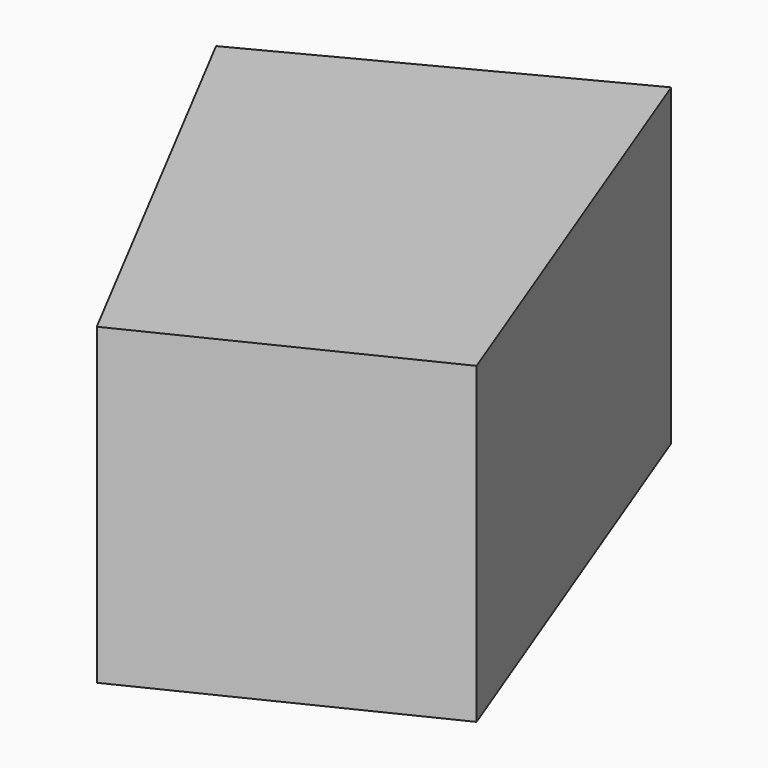
from build123d import *

# Parameters (mm, degrees)
F1_DEPTH = 73.914


with BuildPart() as f1:
    # F0 (on Top) → F1 (new body)
    with BuildSketch(Plane.XY):
        Polygon((-5.571578, -72.652377), (58.794372, -41.156065), (17.403135, 67.966297), (-58.324024, 28.456474), align=None)
    extrude(amount=-F1_DEPTH)


solid = f1.part
